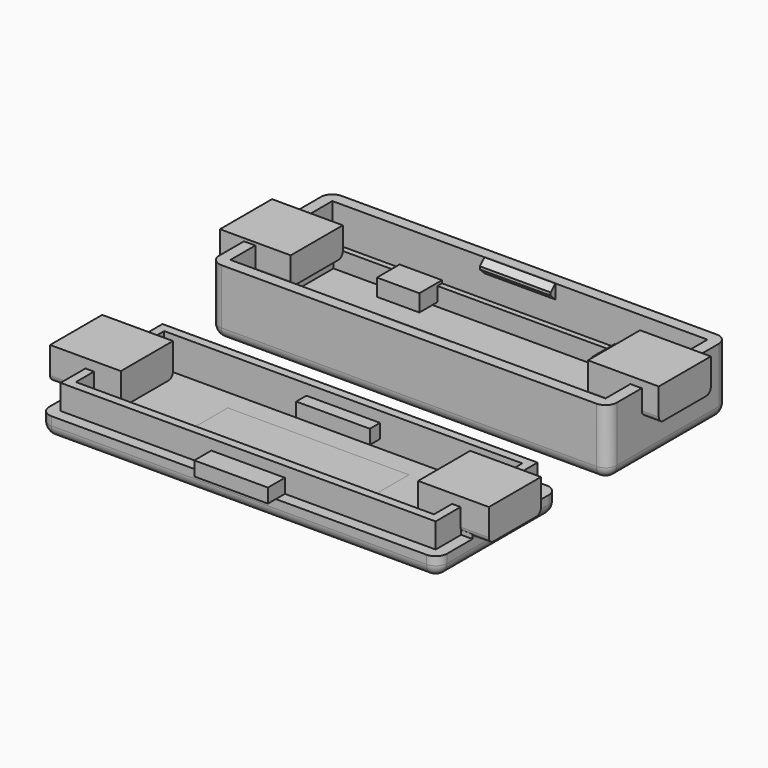
from build123d import *

# Parameters (mm, degrees)
BOX001_W        = 53
BOX001_H        = 18
BOX001_DEPTH    = 9.4
BOX_W           = 56.2
BOX_H           = 21.2
BOX_DEPTH       = 9.4
FILLET_R        = 1.6
BOX003_W        = 51.4
BOX003_H        = 16.4
BOX003_DEPTH    = 2.6
BOX002_W        = 53
BOX002_H        = 18
BOX002_DEPTH    = 2.6
BOX004_W        = 10
BOX004_H        = 1
BOX004_DEPTH    = 2
CHAMFER_SIZE    = 0.8
BOX005_W        = 10
BOX005_H        = 1
BOX005_DEPTH    = 2
CHAMFER001_SIZE = 0.8
BOX008_W        = 6
BOX008_H        = 10
BOX008_DEPTH    = 2.4
BOX009_W        = 6
BOX009_H        = 10
BOX009_DEPTH    = 2.4
BOX011_W        = 53
BOX011_H        = 18
BOX011_DEPTH    = 9.4
BOX010_W        = 56.2
BOX010_H        = 21.2
BOX010_DEPTH    = 2.8
FILLET001_R     = 1.6
BOX013_W        = 50.6
BOX013_H        = 15.6
BOX013_DEPTH    = 4.8
BOX012_W        = 53
BOX012_H        = 18
BOX012_DEPTH    = 4.7
BOX014_W        = 25.6
BOX014_H        = 9.8
BOX014_DEPTH    = 1.6
BOX017_W        = 10.4
BOX017_H        = 5
BOX017_DEPTH    = 2
BOX018_W        = 10.4
BOX018_H        = 5
BOX018_DEPTH    = 2
BOX006_W        = 10
BOX006_H        = 9.2
BOX006_DEPTH    = 4
FILLET002_R     = 0.8
BOX019_W        = 10
BOX019_H        = 9.2
BOX019_DEPTH    = 4.6
FILLET003_R     = 0.8
BOX022_W        = 1.6
BOX022_H        = 9
BOX022_DEPTH    = 3
BOX023_W        = 1.6
BOX023_H        = 9
BOX023_DEPTH    = 3
BOX020_W        = 10
BOX020_H        = 9.2
BOX020_DEPTH    = 4.6
FILLET004_R     = 0.8
BOX021_W        = 10
BOX021_H        = 9.2
BOX021_DEPTH    = 4.6
FILLET005_R     = 0.8


with BuildPart() as unten_innen:
    # Box001 → Box001 (new body)
    with BuildSketch(Plane.XY.offset(1.6)):
        with Locations((26.5, 9)):
            Rectangle(BOX001_W, BOX001_H)
    extrude(amount=BOX001_DEPTH)


with BuildPart() as obj1:
    # Box → Box (new body)
    with BuildSketch(Plane(origin=(-1.6, -1.6, 0), x_dir=(1, 0, 0), z_dir=(0, 0, 1))):
        with Locations((28.1, 10.6)):
            Rectangle(BOX_W, BOX_H)
    extrude(amount=BOX_DEPTH)

    # Cut: cut unten_innen
    add(unten_innen.part, mode=Mode.SUBTRACT)

    # Fillet
    fillet_edges = [obj1.edges().sort_by_distance(p)[0] for p in [
        (-1.6, -1.6, 4.7),
        (-1.6, 19.6, 4.7),
        (-1.6, 9, 0),
        (26.5, -1.6, 0),
        (54.6, -1.6, 4.7),
        (26.5, 19.6, 0),
        (54.6, 19.6, 4.7),
        (54.6, 9, 0),
    ]]
    fillet(fillet_edges, radius=FILLET_R)


with BuildPart() as auflage_innen:
    # Box003 → Box003 (new body)
    with BuildSketch(Plane(origin=(0.8, 0.8, 1.6), x_dir=(1, 0, 0), z_dir=(0, 0, 1))):
        with Locations((25.7, 8.2)):
            Rectangle(BOX003_W, BOX003_H)
    extrude(amount=BOX003_DEPTH)


with BuildPart() as auflage:
    # Box002 → Box002 (new body)
    with BuildSketch(Plane.XY.offset(1.6)):
        with Locations((26.5, 9)):
            Rectangle(BOX002_W, BOX002_H)
    extrude(amount=BOX002_DEPTH)

    # Cut001: cut Auflage_innen
    add(auflage_innen.part, mode=Mode.SUBTRACT)


with BuildPart() as haken1:
    # Box004 → Box004 (new body)
    with BuildSketch(Plane(origin=(21.5, -0.2, 7.4), x_dir=(1, 0, 0), z_dir=(0, 0, 1))):
        with Locations((5, 0.5)):
            Rectangle(BOX004_W, BOX004_H)
    extrude(amount=BOX004_DEPTH)

    # Chamfer
    chamfer_edges = [haken1.edges().sort_by_distance(p)[0] for p in [
        (26.5, 0.8, 7.4),
        (26.5, 0.8, 9.4),
    ]]
    chamfer(chamfer_edges, length=CHAMFER_SIZE)


with BuildPart() as haken2:
    # Box005 → Box005 (new body)
    with BuildSketch(Plane(origin=(21.5, 17.2, 7.4), x_dir=(1, 0, 0), z_dir=(0, 0, 1))):
        with Locations((5, 0.5)):
            Rectangle(BOX005_W, BOX005_H)
    extrude(amount=BOX005_DEPTH)

    # Chamfer001
    chamfer001_edges = [haken2.edges().sort_by_distance(p)[0] for p in [
        (26.5, 17.2, 7.4),
        (26.5, 17.2, 9.4),
    ]]
    chamfer(chamfer001_edges, length=CHAMFER001_SIZE)


with BuildPart() as button1:
    # Box008 → Box008 (new body)
    with BuildSketch(Plane(origin=(9.5, 14, 2.2), x_dir=(1, 0, 0), z_dir=(0, 0, 1))):
        with Locations((3, 5)):
            Rectangle(BOX008_W, BOX008_H)
    extrude(amount=BOX008_DEPTH)


with BuildPart() as button2:
    # Box009 → Box009 (new body)
    with BuildSketch(Plane(origin=(39.9, 14, 2.2), x_dir=(1, 0, 0), z_dir=(0, 0, 1))):
        with Locations((3, 5)):
            Rectangle(BOX009_W, BOX009_H)
    extrude(amount=BOX009_DEPTH)


with BuildPart() as oben_innen:
    # Box011 → Box011 (new body)
    with BuildSketch(Plane(origin=(0, -30, 1.6), x_dir=(1, 0, 0), z_dir=(0, 0, 1))):
        with Locations((26.5, 9)):
            Rectangle(BOX011_W, BOX011_H)
    extrude(amount=BOX011_DEPTH)


with BuildPart() as obj2:
    # Box010 → Box010 (new body)
    with BuildSketch(Plane(origin=(-1.6, -31.6, 0), x_dir=(1, 0, 0), z_dir=(0, 0, 1))):
        with Locations((28.1, 10.6)):
            Rectangle(BOX010_W, BOX010_H)
    extrude(amount=BOX010_DEPTH)

    # Cut002: cut oben_innen
    add(oben_innen.part, mode=Mode.SUBTRACT)

    # Fillet001
    fillet001_edges = [obj2.edges().sort_by_distance(p)[0] for p in [
        (-1.6, -31.6, 1.4),
        (-1.6, -10.4, 1.4),
        (-1.6, -21, 0),
        (26.5, -31.6, 0),
        (54.6, -31.6, 1.4),
        (26.5, -10.4, 0),
        (54.6, -10.4, 1.4),
        (54.6, -21, 0),
    ]]
    fillet(fillet001_edges, radius=FILLET001_R)


with BuildPart() as rahmen_innen:
    # Box013 → Box013 (new body)
    with BuildSketch(Plane(origin=(1.2, -28.8, 1.6), x_dir=(1, 0, 0), z_dir=(0, 0, 1))):
        with Locations((25.3, 7.8)):
            Rectangle(BOX013_W, BOX013_H)
    extrude(amount=BOX013_DEPTH)


with BuildPart() as rahmen:
    # Box012 → Box012 (new body)
    with BuildSketch(Plane(origin=(0, -30, 1.6), x_dir=(1, 0, 0), z_dir=(0, 0, 1))):
        with Locations((26.5, 9)):
            Rectangle(BOX012_W, BOX012_H)
    extrude(amount=BOX012_DEPTH)

    # Cut003: cut Rahmen_innen
    add(rahmen_innen.part, mode=Mode.SUBTRACT)


with BuildPart() as oled:
    # Box014 → Box014 (new body)
    with BuildSketch(Plane(origin=(12.5, -25.9, 0), x_dir=(1, 0, 0), z_dir=(0, 0, 1))):
        with Locations((12.8, 4.9)):
            Rectangle(BOX014_W, BOX014_H)
    extrude(amount=BOX014_DEPTH)


with BuildPart() as oese1:
    # Box017 → Box017 (new body)
    with BuildSketch(Plane(origin=(21.3, -33, 2.8), x_dir=(1, 0, 0), z_dir=(0, 0, 1))):
        with Locations((5.2, 2.5)):
            Rectangle(BOX017_W, BOX017_H)
    extrude(amount=BOX017_DEPTH)


with BuildPart() as oese2:
    # Box018 → Box018 (new body)
    with BuildSketch(Plane(origin=(21.3, -15, 2.8), x_dir=(1, 0, 0), z_dir=(0, 0, 1))):
        with Locations((5.2, 2.5)):
            Rectangle(BOX018_W, BOX018_H)
    extrude(amount=BOX018_DEPTH)


with BuildPart() as usb_buchse1:
    # Box006 → Box006 (new body)
    with BuildSketch(Plane(origin=(-5, 4.4, 5.8), x_dir=(1, 0, 0), z_dir=(0, 0, 1))):
        with Locations((5, 4.6)):
            Rectangle(BOX006_W, BOX006_H)
    extrude(amount=BOX006_DEPTH)

    # Fillet002
    fillet002_edges = [usb_buchse1.edges().sort_by_distance(p)[0] for p in [
        (0, 4.4, 5.8),
        (0, 13.6, 5.8),
    ]]
    fillet(fillet002_edges, radius=FILLET002_R)


with BuildPart() as usb_buchse2:
    # Box019 → Box019 (new body)
    with BuildSketch(Plane(origin=(47, 4.4, 5.8), x_dir=(1, 0, 0), z_dir=(0, 0, 1))):
        with Locations((5, 4.6)):
            Rectangle(BOX019_W, BOX019_H)
    extrude(amount=BOX019_DEPTH)

    # Fillet003
    fillet003_edges = [usb_buchse2.edges().sort_by_distance(p)[0] for p in [
        (52, 4.4, 5.8),
        (52, 13.6, 5.8),
    ]]
    fillet(fillet003_edges, radius=FILLET003_R)


with BuildPart() as nut1:
    # Box022 → Box022 (new body)
    with BuildSketch(Plane(origin=(-1.6, -25.5, 2.8), x_dir=(1, 0, 0), z_dir=(0, 0, 1))):
        with Locations((0.8, 4.5)):
            Rectangle(BOX022_W, BOX022_H)
    extrude(amount=BOX022_DEPTH)


with BuildPart() as nut2:
    # Box023 → Box023 (new body)
    with BuildSketch(Plane(origin=(53, -25.5, 2.8), x_dir=(1, 0, 0), z_dir=(0, 0, 1))):
        with Locations((0.8, 4.5)):
            Rectangle(BOX023_W, BOX023_H)
    extrude(amount=BOX023_DEPTH)


with BuildPart() as usb_buchse3:
    # Box020 → Box020 (new body)
    with BuildSketch(Plane(origin=(-5, -25.6, 3), x_dir=(1, 0, 0), z_dir=(0, 0, 1))):
        with Locations((5, 4.6)):
            Rectangle(BOX020_W, BOX020_H)
    extrude(amount=BOX020_DEPTH)

    # Fillet004
    fillet004_edges = [usb_buchse3.edges().sort_by_distance(p)[0] for p in [
        (0, -25.6, 3),
        (0, -16.4, 3),
    ]]
    fillet(fillet004_edges, radius=FILLET004_R)


with BuildPart() as usb_buchse4:
    # Box021 → Box021 (new body)
    with BuildSketch(Plane(origin=(47, -25.6, 3), x_dir=(1, 0, 0), z_dir=(0, 0, 1))):
        with Locations((5, 4.6)):
            Rectangle(BOX021_W, BOX021_H)
    extrude(amount=BOX021_DEPTH)

    # Fillet005
    fillet005_edges = [usb_buchse4.edges().sort_by_distance(p)[0] for p in [
        (52, -25.6, 3),
        (52, -16.4, 3),
    ]]
    fillet(fillet005_edges, radius=FILLET005_R)


solid = Compound([obj1.part, auflage.part, haken1.part, haken2.part, button1.part, button2.part, obj2.part, rahmen.part, oled.part, oese1.part, oese2.part, usb_buchse1.part, usb_buchse2.part, nut1.part, nut2.part, usb_buchse3.part, usb_buchse4.part])
